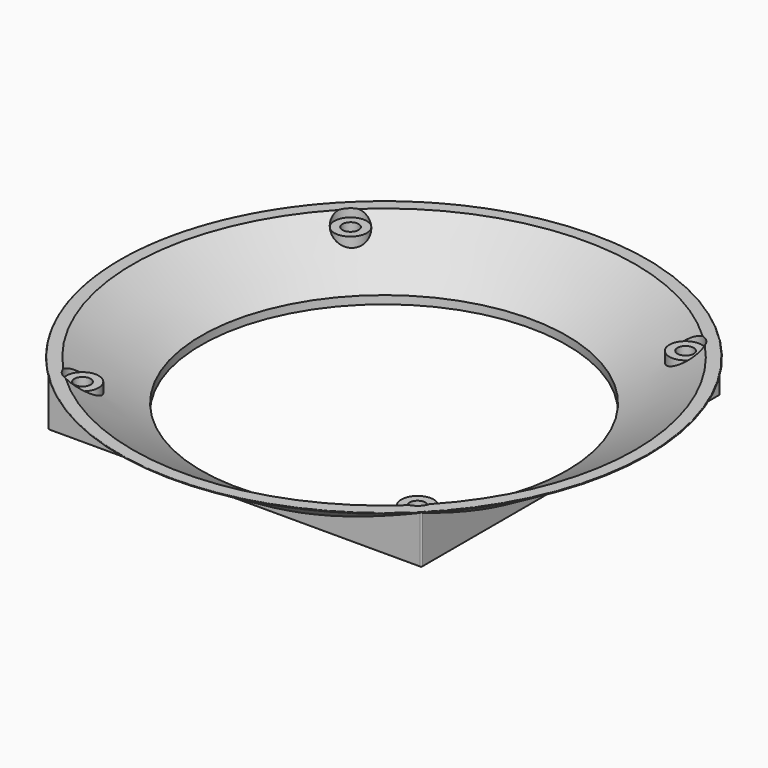
from build123d import *

# Parameters (mm, degrees)
CYLINDER009_R     = 4
CYLINDER009_DEPTH = 4
CYLINDER011_R     = 4
CYLINDER011_DEPTH = 4
CYLINDER010_R     = 4
CYLINDER010_DEPTH = 4
CYLINDER012_R     = 4
CYLINDER012_DEPTH = 4
CYLINDER007_R     = 2
CYLINDER007_DEPTH = 17
CYLINDER005_R     = 2
CYLINDER005_DEPTH = 17
CYLINDER006_R     = 2
CYLINDER006_DEPTH = 17
CYLINDER008_R     = 2
CYLINDER008_DEPTH = 17
CYLINDER004_R     = 4
CYLINDER004_DEPTH = 10
CYLINDER003_R     = 4
CYLINDER003_DEPTH = 10
CYLINDER002_R     = 4
CYLINDER002_DEPTH = 10
CYLINDER001_R     = 4
CYLINDER001_DEPTH = 10
CYLINDER_R        = 45
CYLINDER_DEPTH    = 15
FILLET001_R       = 0.1
BOX_W             = 92
BOX_H             = 92
BOX_DEPTH         = 12
FILLET_R          = 0.3


with BuildPart() as cylinder009:
    # Cylinder009 → Cylinder009 (new body)
    with BuildSketch(Plane(origin=(41.25, 41.25, 10), x_dir=(1, 0, 0), z_dir=(0, 0, 1))):
        Circle(CYLINDER009_R)
    extrude(amount=CYLINDER009_DEPTH)


with BuildPart() as cylinder011:
    # Cylinder011 → Cylinder011 (new body)
    with BuildSketch(Plane(origin=(-41.25, -41.25, 10), x_dir=(1, 0, 0), z_dir=(0, 0, 1))):
        Circle(CYLINDER011_R)
    extrude(amount=CYLINDER011_DEPTH)


with BuildPart() as cylinder010:
    # Cylinder010 → Cylinder010 (new body)
    with BuildSketch(Plane(origin=(-41.25, 41.25, 10), x_dir=(1, 0, 0), z_dir=(0, 0, 1))):
        Circle(CYLINDER010_R)
    extrude(amount=CYLINDER010_DEPTH)


with BuildPart() as fusion004:
    # Cylinder012 → Cylinder012 (new body)
    with BuildSketch(Plane(origin=(41.25, -41.25, 10), x_dir=(1, 0, 0), z_dir=(0, 0, 1))):
        Circle(CYLINDER012_R)
    extrude(amount=CYLINDER012_DEPTH)

    # Fusion004: union Cylinder009, Cylinder011, Cylinder010
    add(cylinder009.part)
    add(cylinder011.part)
    add(cylinder010.part)


with BuildPart() as cylinder007:
    # Cylinder007 → Cylinder007 (new body)
    with BuildSketch(Plane(origin=(41.25, -41.25, -3), x_dir=(1, 0, 0), z_dir=(0, 0, 1))):
        Circle(CYLINDER007_R)
    extrude(amount=CYLINDER007_DEPTH)


with BuildPart() as cylinder005:
    # Cylinder005 → Cylinder005 (new body)
    with BuildSketch(Plane(origin=(41.25, 41.25, -3), x_dir=(1, 0, 0), z_dir=(0, 0, 1))):
        Circle(CYLINDER005_R)
    extrude(amount=CYLINDER005_DEPTH)


with BuildPart() as cylinder006:
    # Cylinder006 → Cylinder006 (new body)
    with BuildSketch(Plane(origin=(-41.25, 41.25, -3), x_dir=(1, 0, 0), z_dir=(0, 0, 1))):
        Circle(CYLINDER006_R)
    extrude(amount=CYLINDER006_DEPTH)


with BuildPart() as fusion003:
    # Cylinder008 → Cylinder008 (new body)
    with BuildSketch(Plane(origin=(-41.25, -41.25, -3), x_dir=(1, 0, 0), z_dir=(0, 0, 1))):
        Circle(CYLINDER008_R)
    extrude(amount=CYLINDER008_DEPTH)

    # Fusion003: union Cylinder007, Cylinder005, Cylinder006
    add(cylinder007.part)
    add(cylinder005.part)
    add(cylinder006.part)


with BuildPart() as cylinder004:
    # Cylinder004 → Cylinder004 (new body)
    with BuildSketch(Plane(origin=(-41.25, -41.25, 0), x_dir=(1, 0, 0), z_dir=(0, 0, 1))):
        Circle(CYLINDER004_R)
    extrude(amount=CYLINDER004_DEPTH)


with BuildPart() as cylinder003:
    # Cylinder003 → Cylinder003 (new body)
    with BuildSketch(Plane(origin=(41.25, -41.25, 0), x_dir=(1, 0, 0), z_dir=(0, 0, 1))):
        Circle(CYLINDER003_R)
    extrude(amount=CYLINDER003_DEPTH)


with BuildPart() as cylinder002:
    # Cylinder002 → Cylinder002 (new body)
    with BuildSketch(Plane(origin=(-41.25, 41.25, 0), x_dir=(1, 0, 0), z_dir=(0, 0, 1))):
        Circle(CYLINDER002_R)
    extrude(amount=CYLINDER002_DEPTH)


with BuildPart() as cylinder001:
    # Cylinder001 → Cylinder001 (new body)
    with BuildSketch(Plane(origin=(41.25, 41.25, 0), x_dir=(1, 0, 0), z_dir=(0, 0, 1))):
        Circle(CYLINDER001_R)
    extrude(amount=CYLINDER001_DEPTH)


with BuildPart() as cone001:
    # Cone001 → Cone001 (revolve)
    with BuildSketch(Plane(origin=(0, 0, 2), x_dir=(1, 0, 0), z_dir=(0, -1, 0))):
        Polygon((0, 0), (45, 0), (65.25, 12), (0, 12), align=None)
    revolve(axis=Axis((0, 0, 2), (0, 0, 1)))


with BuildPart() as void:
    # Cylinder → Cylinder (new body)
    with BuildSketch(Plane.XY.offset(-1)):
        Circle(CYLINDER_R)
    extrude(amount=CYLINDER_DEPTH)

    # Fusion001: union Cone001
    add(cone001.part)


with BuildPart() as fillet001:
    # Cone → Cone (revolve)
    with BuildSketch(Plane.XZ):
        Polygon((0, 0), (45, 0), (65.25, 12), (0, 12), align=None)
    revolve(axis=Axis((0, 0, 0), (0, 0, 1)))

    # Fillet001
    fillet001_edges = [fillet001.edges().sort_by_distance(p)[0] for p in [
        (-65.25, 0, 12),
    ]]
    fillet(fillet001_edges, radius=FILLET001_R)


with BuildPart() as cut002:
    # Box → Box (new body)
    with BuildSketch(Plane(origin=(-46, -46, 0), x_dir=(1, 0, 0), z_dir=(0, 0, 1))):
        with Locations((46, 46)):
            Rectangle(BOX_W, BOX_H)
    extrude(amount=BOX_DEPTH)

    # Fillet
    fillet_edges = [cut002.edges().sort_by_distance(p)[0] for p in [
        (-46, -46, 6),
        (-46, 46, 6),
        (-46, 0, 0),
        (46, -46, 6),
        (46, 46, 6),
        (46, 0, 0),
        (0, -46, 0),
        (0, 46, 0),
    ]]
    fillet(fillet_edges, radius=FILLET_R)

    # Fusion: union Fillet001
    add(fillet001.part)

    # Cut: cut void
    add(void.part, mode=Mode.SUBTRACT)

    # Fusion002: union Cylinder004, Cylinder003, Cylinder002, Cylinder001
    add(cylinder004.part)
    add(cylinder003.part)
    add(cylinder002.part)
    add(cylinder001.part)

    # Cut001: cut Fusion003
    add(fusion003.part, mode=Mode.SUBTRACT)

    # Cut002: cut Fusion004
    add(fusion004.part, mode=Mode.SUBTRACT)


solid = cut002.part
